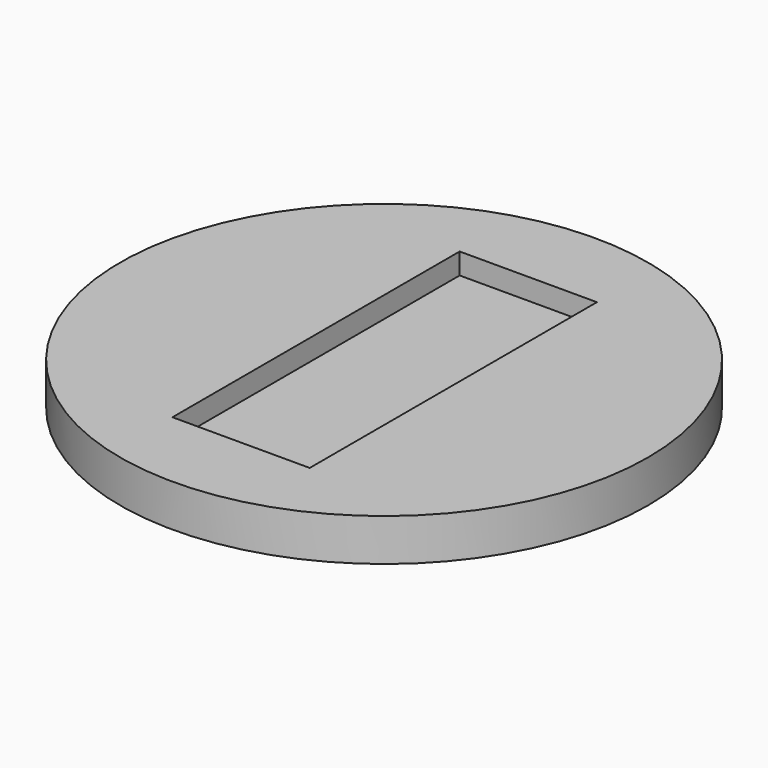
from build123d import *

# Parameters (mm, degrees)
F0_W     = 6.5
F0_H     = 17
F1_DEPTH = 1
F0_R     = 12.5
F2_DEPTH = 2


with BuildPart() as f1:
    # F0 (on Top) → F1 (new body)
    with BuildSketch(Plane.XY):
        with Locations((11.249999, -11.019001)):
            Rectangle(F0_W, F0_H)
    extrude(amount=F1_DEPTH)

    # F0 (on Top) → F2 (join)
    with BuildSketch(Plane.XY):
        with Locations((11.246626, -11.0498)):
            Circle(F0_R)
        with Locations((11.249999, -11.019001)):
            Rectangle(F0_W, F0_H, mode=Mode.SUBTRACT)
    extrude(amount=F2_DEPTH)


solid = f1.part
